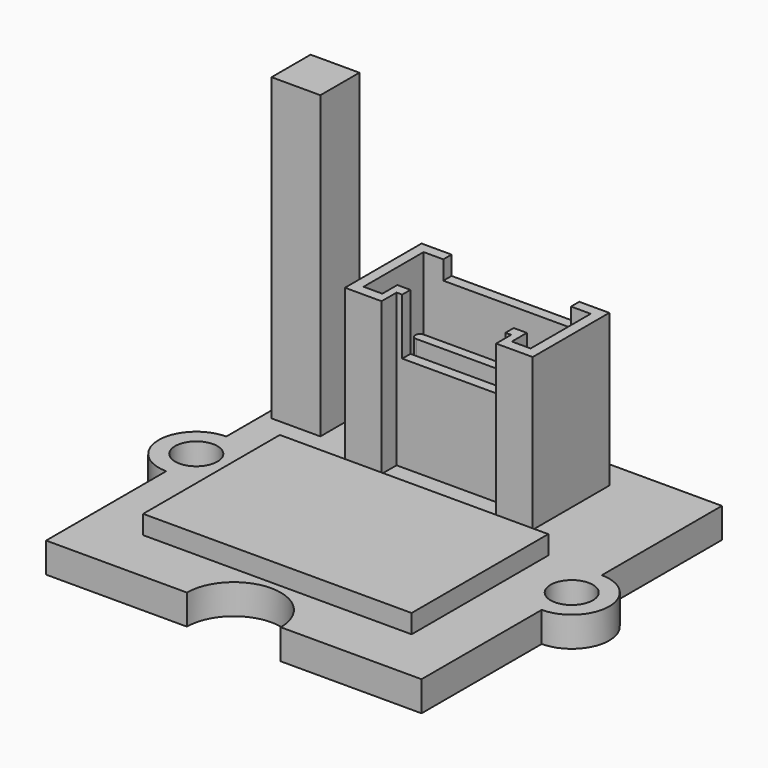
from build123d import *

# Parameters (mm, degrees)
PAD_DEPTH       = 1.6
SKETCH001_R     = 1.125
POCKET_DEPTH    = 1.601
PAD005_DEPTH    = 8.1
POCKET003_DEPTH = 7
SKETCH010_W     = 6.8
SKETCH010_H     = 5
POCKET004_DEPTH = 1
SKETCH011_W     = 5.5
SKETCH011_H     = 3
POCKET005_DEPTH = 3
PAD006_DEPTH    = 4
PAD007_DEPTH    = 0.5
SKETCH014_W     = 4.4
SKETCH014_H     = 2.4
PAD008_DEPTH    = 1
SKETCH015_W     = 14.3
SKETCH015_H     = 9.1
PAD009_DEPTH    = 1
SKETCH016_W     = 2.6
SKETCH016_H     = 2.6
PAD010_DEPTH    = 16


with BuildPart() as obj1:
    # Sketch → Pad (new body)
    with BuildSketch(Plane.XY):
        with BuildLine():
            Line((-10, 10), (-2.5, 10))
            ThreePointArc((-2.5, 10), (0, 7.5), (2.5, 10))
            Line((2.5, 10), (10, 10))
            Line((10, 10), (10, 2))
            ThreePointArc((10, -2), (12, 0), (10, 2))
            Line((10, -2), (10, -10))
            Line((10, -10), (2.5, -10))
            ThreePointArc((2.5, -10), (0, -7.5), (-2.5, -10))
            Line((-2.5, -10), (-10, -10))
            Line((-10, -10), (-10, -2))
            ThreePointArc((-10, 2), (-12, 0), (-10, -2))
            Line((-10, 10), (-10, 2))
        make_face()
    extrude(amount=PAD_DEPTH)

    # Sketch001 → Pocket (cut, through all)
    with BuildSketch(Plane.XY):
        with Locations((-10, 0)):
            Circle(SKETCH001_R)
        with Locations((10, 0)):
            Circle(SKETCH001_R)
    extrude(amount=POCKET_DEPTH, mode=Mode.SUBTRACT)


with BuildPart() as obj2:
    # Sketch008 → Pad005 (new body)
    with BuildSketch(Plane.XY):
        Polygon((-5, 0), (-3.05, 0), (-3.05, 1), (3.05, 1), (3.05, 0), (5, 0), (5, 5.1), (-5, 5.1), align=None)
    extrude(amount=PAD005_DEPTH)

    # Sketch009 (on Face10 of Pad005) → Pocket003 (cut)
    with BuildSketch(Plane.XY.offset(8.1)):
        Polygon((-4.45, 0.55), (-3.45, 0.55), (-3.45, 1.55), (3.45, 1.55), (3.45, 0.55), (4.45, 0.55), (4.45, 4.55), (-4.45, 4.55), align=None)
    extrude(amount=-POCKET003_DEPTH, mode=Mode.SUBTRACT)

    # Sketch010 (on Face5 of Pocket003) → Pocket004 (cut)
    with BuildSketch(Plane.XY.offset(8.1)):
        with Locations((0, 5.5)):
            Rectangle(SKETCH010_W, SKETCH010_H)
    extrude(amount=-POCKET004_DEPTH, mode=Mode.SUBTRACT)

    # Sketch011 (on Face5 of Pocket004) → Pocket005 (cut)
    with BuildSketch(Plane.XY.offset(8.1)):
        with Locations((0, 1.5)):
            Rectangle(SKETCH011_W, SKETCH011_H)
    extrude(amount=-POCKET005_DEPTH, mode=Mode.SUBTRACT)

    # Sketch012 (on Face26 of Pocket005) → Pad006 (join)
    with BuildSketch(Plane.XY.offset(1.1)):
        with BuildLine():
            ThreePointArc((-3.4, 3.25), (-3.65, 3), (-3.4, 2.75))
            Line((-3.4, 2.75), (3.4, 2.75))
            ThreePointArc((3.4, 2.75), (3.65, 3), (3.4, 3.25))
            Line((-3.4, 3.25), (3.4, 3.25))
        make_face()
    extrude(amount=PAD006_DEPTH)

    # Sketch013 → Pad007 (join)
    with BuildSketch(Plane.XY):
        with BuildLine():
            ThreePointArc((-3, 3.75), (-3.75, 3), (-3, 2.25))
            Line((-3, 2.25), (3, 2.25))
            ThreePointArc((3, 2.25), (3.75, 3), (3, 3.75))
            Line((-3, 3.75), (3, 3.75))
        make_face()
    extrude(amount=-PAD007_DEPTH)


with BuildPart() as obj2_1:
    # Body005 placement: moved
    add(obj2.part.moved(Location((0.2, 3.4, 1.6))))


with BuildPart() as obj3:
    # Sketch014 → Pad008 (new body)
    with BuildSketch(Plane.XY):
        Rectangle(SKETCH014_W, SKETCH014_H)
    extrude(amount=-PAD008_DEPTH)


with BuildPart() as obj4:
    # Sketch015 → Pad009 (new body)
    with BuildSketch(Plane.XY):
        with Locations((0, -4.55)):
            Rectangle(SKETCH015_W, SKETCH015_H)
    extrude(amount=PAD009_DEPTH)


with BuildPart() as obj4_1:
    # Body007 placement: moved
    add(obj4.part.moved(Location((0, 2, 1.6))))


with BuildPart() as obj5:
    # Sketch016 → Pad010 (new body)
    with BuildSketch(Plane.XY):
        with Locations((-8.25, 5.75)):
            Rectangle(SKETCH016_W, SKETCH016_H)
    extrude(amount=PAD010_DEPTH)


with BuildPart() as obj5_1:
    # Body008 placement: moved
    add(obj5.part.moved(Location((0, 0, 1.6))))


solid = Compound([obj1.part, obj2_1.part, obj3.part, obj4_1.part, obj5_1.part])
